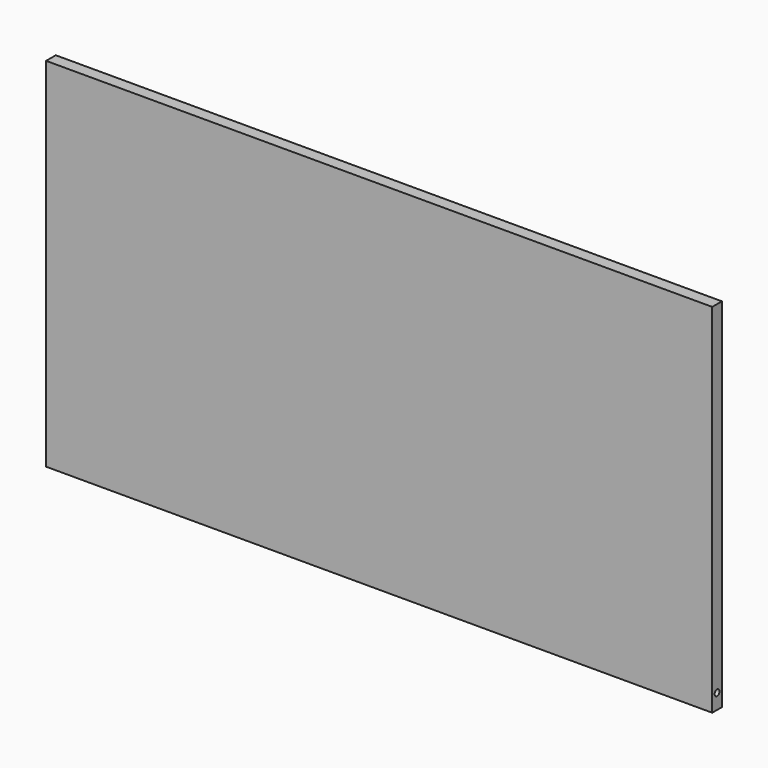
from build123d import *

# Parameters (mm, degrees)
F0_W     = 1100
F0_H     = 590
F1_DEPTH = 20
F2_R     = 5
F3_DEPTH = 25
F4_R     = 5
F5_DEPTH = 25


with BuildPart() as f1:
    # F0 (on Front) → F1 (new body)
    with BuildSketch(Plane.XZ):
        Rectangle(F0_W, F0_H)
    extrude(amount=F1_DEPTH)

    # F2 (on face) → F3 (cut)
    with BuildSketch(Plane.YZ.offset(550)):
        with Locations((-10, -270)):
            Circle(F2_R)
    extrude(amount=-F3_DEPTH, mode=Mode.SUBTRACT)

    # F4 (on face) → F5 (cut)
    with BuildSketch(Plane(origin=(-550, 0, 0), x_dir=(0, -1, 0), z_dir=(-1, 0, 0))):
        with Locations((10, -270)):
            Circle(F4_R)
    extrude(amount=-F5_DEPTH, mode=Mode.SUBTRACT)


solid = f1.part
